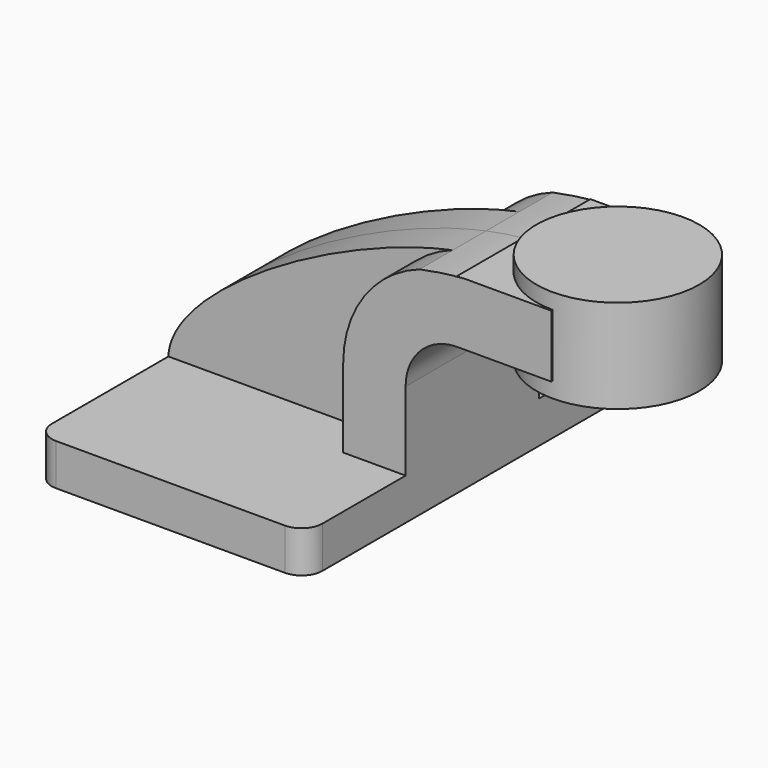
from build123d import *

# Parameters (mm, degrees)
F1_DEPTH = 63.5
F0_W     = 25.9565819922
F0_H     = 19.05
F2_DEPTH = 25.4
F3_DEPTH = 12.7
F5_R     = 6.35


with BuildPart() as f1:
    # F0 (on Front) → F1 (new body, symmetric)
    with BuildSketch(Plane.XZ):
        Polygon((22.225, 6.35), (-41.275, 6.35), (-41.275, -6.35), (41.275, -6.35), (41.275, 6.35), align=None)
    extrude(amount=F1_DEPTH, both=True)

    # F0 (on Front) → F2 (join, symmetric)
    with BuildSketch(Plane.XZ):
        with BuildLine():
            Line((22.225, 30.3022), (22.225, 6.35))
            Line((22.225, 6.35), (41.275, 6.35))
            Line((41.275, 6.35), (41.275, 30.3022))
            ThreePointArc((41.275, 30.3022), (45.8874824099, 41.4377175901), (57.023, 46.0502))
            Line((57.023, 46.0502), (59.7684180078, 46.0502))
            Line((59.7684180078, 46.0502), (59.7684180078, 65.1002))
            Line((59.7684180078, 65.1002), (57.023, 65.1002))
            ThreePointArc((57.023, 65.1002), (58.0206866195, 65.0858948211), (59.0175529571, 65.042991046))
            add(Edge.make_bspline(
                [(45.498923229, 63.1365792171), (50.2364600679, 64.1417845), (54.78396405, 64.7988002062), (59.0175529571, 65.042991046)],
                knots=[103.0762503935, 103.0762503935, 103.0762503935, 103.0762503935, 116.2044034303, 116.2044034303, 116.2044034303, 116.2044034303], degree=3))
            ThreePointArc((45.498923229, 63.1365792171), (28.6336038504, 50.4253953293), (22.225, 30.3022))
        make_face()
        with Locations((72.7467090039, 55.5752)):
            Rectangle(F0_W, F0_H)
    extrude(amount=F2_DEPTH, both=True)

    # F0 (on Front) → F3 (join, symmetric)
    with BuildSketch(Plane.XZ):
        with BuildLine():
            add(Edge.make_bspline(
                [(-41.275, 6.35), (-40.6099216302, 25.8870106414), (8.301951797, 55.244167303), (45.498923229, 63.1365792171)],
                knots=[0, 0, 0, 0, 103.0762503935, 103.0762503935, 103.0762503935, 103.0762503935], degree=3))
            Line((-41.275, 6.35), (22.225, 6.35))
            Line((22.225, 6.35), (22.225, 30.3022))
            ThreePointArc((22.225, 30.3022), (28.6336038504, 50.4253953293), (45.498923229, 63.1365792171))
        make_face()
    extrude(amount=F3_DEPTH, both=True)

    # F0 (on Front) → F4 (revolve)
    with BuildSketch(Plane.XZ):
        Polygon((85.725, 69.85), (85.725, 65.1002), (85.725, 46.0502), (85.725, 41.275), (110.5684180078, 41.275), (110.5684180078, 69.85), align=None)
    revolve(axis=Axis((85.725, 0, 55.5625), (0, 0, 1)))

    # F5
    f5_edges = [f1.edges().sort_by_distance(p)[0] for p in [
        (-41.275, -63.5, 0),
        (41.275, -63.5, 0),
        (41.275, 63.5, 0),
        (-41.275, 63.5, 0),
    ]]
    fillet(f5_edges, radius=F5_R)


solid = f1.part
